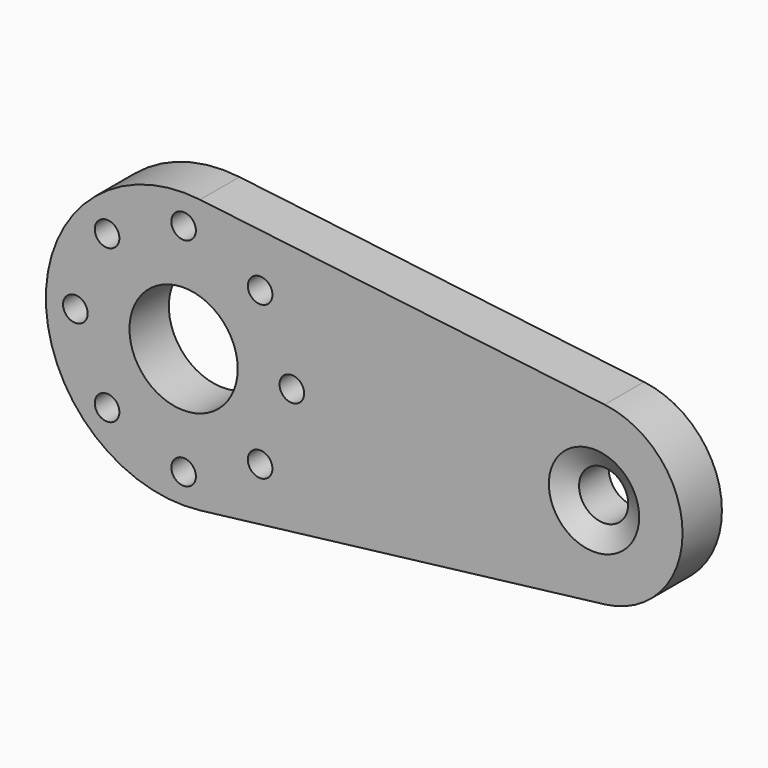
from build123d import *

# Parameters (mm, degrees)
F0_R     = 1.25
F0_R_2   = 5.5
F0_R_3   = 2.5
F1_DEPTH = 5
F2_SIZE2 = 2.09
F2_SIZE  = 1.223


with BuildPart() as f1:
    # F0 (on Front) → F1 (new body)
    with BuildSketch(Plane.XZ):
        with BuildLine():
            Line((20.093722, 8.935112), (-21.020701, 13.899064))
            ThreePointArc((-21.020701, 13.899064), (-36.698805, 0), (-21.020701, -13.899064))
            Line((-21.020701, -13.899064), (20.093722, -8.935112))
            ThreePointArc((20.093722, -8.935112), (28.014941, 0), (20.093722, 8.935112))
        make_face()
        with Locations((-22.698805, -11)):
            Circle(F0_R, mode=Mode.SUBTRACT)
        with Locations((-30.47698, -7.778175)):
            Circle(F0_R, mode=Mode.SUBTRACT)
        with Locations((-14.92063, -7.778175)):
            Circle(F0_R, mode=Mode.SUBTRACT)
        with Locations((-33.698805, 0)):
            Circle(F0_R, mode=Mode.SUBTRACT)
        with Locations((-22.698805, 0)):
            Circle(F0_R_2, mode=Mode.SUBTRACT)
        with Locations((-11.698805, 0)):
            Circle(F0_R, mode=Mode.SUBTRACT)
        with Locations((-30.47698, 7.778175)):
            Circle(F0_R, mode=Mode.SUBTRACT)
        with Locations((-22.698805, 11)):
            Circle(F0_R, mode=Mode.SUBTRACT)
        with Locations((-14.92063, 7.778175)):
            Circle(F0_R, mode=Mode.SUBTRACT)
        with Locations((19.014941, 0)):
            Circle(F0_R_3, mode=Mode.SUBTRACT)
    extrude(amount=F1_DEPTH)

    # F2
    f2_edges = [f1.edges().sort_by_distance(p)[0] for p in [
        (16.514941, -5, 0),
    ]]
    chamfer(f2_edges, length=F2_SIZE, length2=F2_SIZE2)


solid = f1.part
